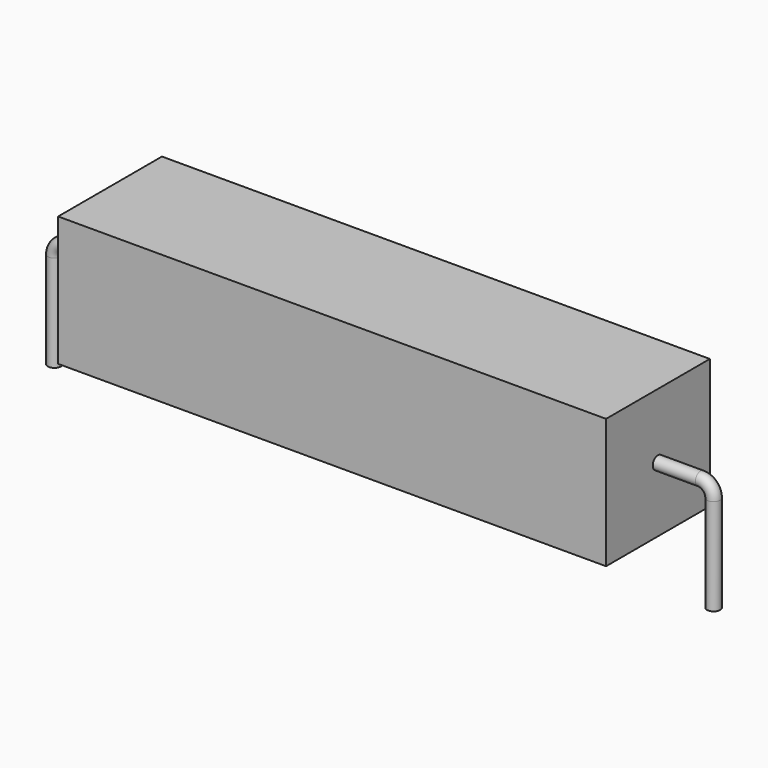
from build123d import *

# Parameters (mm, degrees)
SKETCH_R    = 0.45
SKETCH002_W = 38
SKETCH002_H = 9
PAD_DEPTH   = 4.5


with BuildPart() as sweep_body:
    # Sweep: sweep along a path in Sketch001
    with BuildLine(Plane.XZ) as sweep_path:
        Line((0, -3), (0, 3.7))
        ThreePointArc((0, 3.7), (0.263601, 4.336394), (0.899993, 4.6))
        Line((0.899993, 4.6), (44.82, 4.6))
        ThreePointArc((44.82, 4.6), (45.456396, 4.336396), (45.72, 3.7))
        Line((45.72, 3.7), (45.72, -3))
    # Sketch → Sweep (sweep)
    with BuildSketch(Plane.XY.offset(-2)):
        Circle(SKETCH_R)
    sweep(path=sweep_path.line)


with BuildPart() as pad:
    # Sketch002 → Pad (new body, symmetric)
    with BuildSketch(Plane.XZ):
        with Locations((22.86, 4.6)):
            Rectangle(SKETCH002_W, SKETCH002_H)
    extrude(amount=PAD_DEPTH, both=True)


solid = Compound([sweep_body.part, pad.part])
